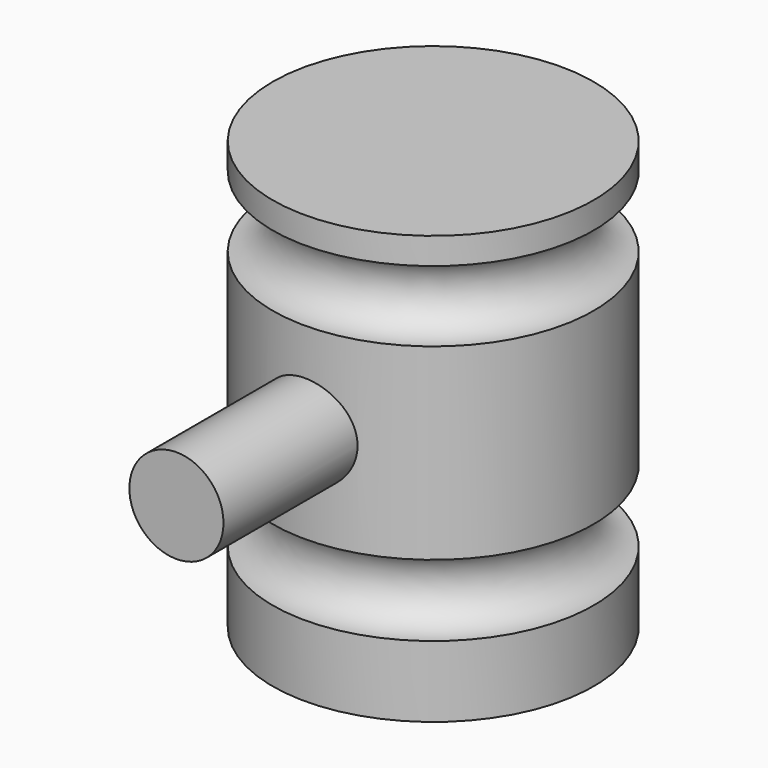
from build123d import *

# Parameters (mm, degrees)
F2_R     = 11.174611
F3_DEPTH = 76.2


with BuildPart() as f1:
    # F0 (on Front) → F1 (revolve)
    with BuildSketch(Plane.XZ):
        with BuildLine():
            Line((-38.1, 0), (0, 0))
            Line((0, 0), (0, 101.6))
            Line((0, 101.6), (-38.1, 101.6))
            Line((-38.1, 101.6), (-38.1, 95.279438))
            ThreePointArc((-38.1, 95.279438), (-29.706439, 86.885877), (-38.1, 78.492315))
            Line((-38.1, 78.492315), (-38.1, 33.886126))
            ThreePointArc((-38.1, 33.886126), (-29.612357, 25.398483), (-38.1, 16.910841))
            Line((-38.1, 16.910841), (-38.1, 0))
        make_face()
    revolve(axis=Axis((0, 0, 50.8), (0, 0, 1)))

    # F2 (on Front) → F3 (join)
    with BuildSketch(Plane.XZ):
        with Locations((0, 56.364965)):
            Circle(F2_R)
    extrude(amount=F3_DEPTH)


solid = f1.part
